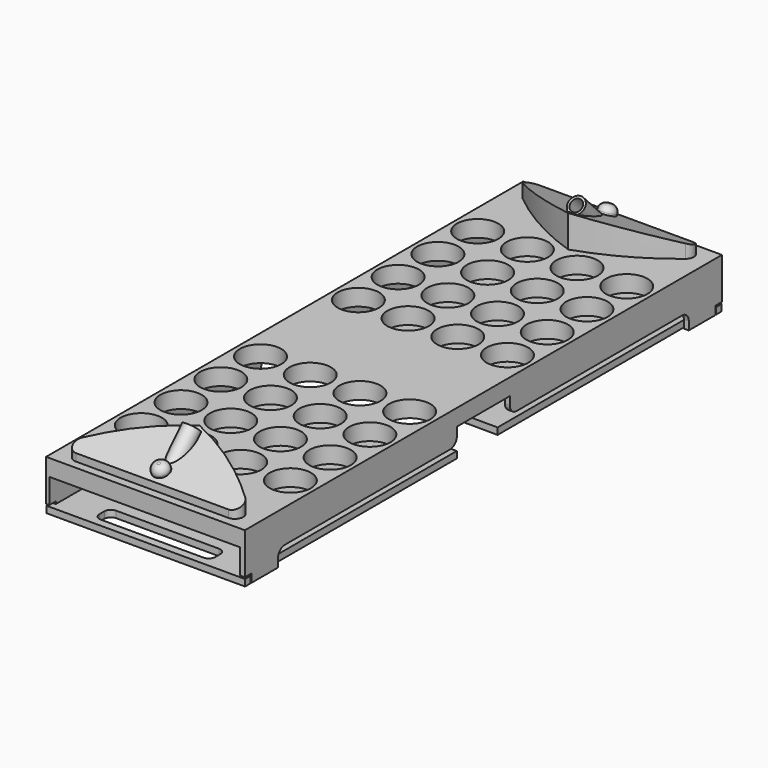
from build123d import *

# Parameters (mm, degrees)
F1_DEPTH       = 38.1
F3_DEPTH       = 101.6
F6_START       = -27.432
F5_R           = 6.35
F6_DEPTH       = 27.178
F8_R           = 6.210923981
F9_DEPTH       = 6.35
F10_R          = 5.08
F11_R          = 4.5597642591
F12_DEPTH      = 25.4
F12_DEPTH_BACK = 25.654
F13_W          = 152.4
F13_H          = 228.6
F13_R          = 15.875
F14_DEPTH      = 12.7
F16_DEPTH      = 3.81
F19_DEPTH      = 2.54
F22_DEPTH      = 5.08
F24_DEPTH      = 5.08


with BuildPart() as f1:
    # F0 (on Top) → F1 (new body)
    with BuildSketch(Plane.XY):
        with BuildLine():
            Line((-58.42, 0), (0, 0))
            Line((0, 0), (58.42, 0))
            ThreePointArc((58.42, 0), (64.3972216341, 4.2063298907), (62.45565082, 11.2526546339))
            ThreePointArc((62.45565082, 11.2526546339), (32.821504106, 31.3741110757), (0, 45.72))
            ThreePointArc((0, 45.72), (-32.821504106, 31.3741110757), (-62.45565082, 11.2526546339))
            ThreePointArc((-62.45565082, 11.2526546339), (-64.3972216341, 4.2063298907), (-58.42, 0))
        make_face()
    extrude(amount=F1_DEPTH)

    # F2 (on Right) → F3 (cut, symmetric)
    with BuildSketch(Plane.YZ):
        Polygon((-11.5003837273, 13.6697003618), (53.3394254744, 40.4384285212), (-11.5003837273, 40.4384285212), align=None)
    extrude(amount=F3_DEPTH, both=True, mode=Mode.SUBTRACT)

    # F5 (on face) → F6 (join)
    with BuildSketch(Plane(origin=(0, 0, 0), x_dir=(1, 0, 0), z_dir=(0, -0.6946583705, -0.7193398003)).offset(F6_START)):
        Circle(F5_R)
    extrude(amount=-F6_DEPTH)

    # F8 (on offset) → F9 (join)
    with BuildSketch(Plane(origin=(0, -6.4963437354, 15.7355884002), x_dir=(1, 0, 0), z_dir=(0, -0.381602662, 0.924326462))):
        with Locations((0, 16.51)):
            Circle(F8_R)
    extrude(amount=F9_DEPTH)

    # F10
    f10_edges = [f1.edges().sort_by_distance(p)[0] for p in [
        (-6.210924, 6.341109, 27.905321),
    ]]
    fillet(f10_edges, radius=F10_R)

    # F11 (on face) → F12 (cut, two sides)
    with BuildSketch(Plane(origin=(0, 37.9352936108, 39.2831464965), x_dir=(1, 0, 0), z_dir=(0, 0.6946583705, 0.7193398003))) as f12_sk:
        Circle(F11_R)
    extrude(amount=-F12_DEPTH, mode=Mode.SUBTRACT)
    extrude(f12_sk.sketch, amount=F12_DEPTH_BACK, mode=Mode.SUBTRACT)

    # F13 (on Top) → F14 (join)
    with BuildSketch(Plane.XY):
        with Locations((0, 107.95)):
            Rectangle(F13_W, F13_H)
        with Locations((-57.15, 61.0670186579)):
            Circle(F13_R, mode=Mode.SUBTRACT)
        with Locations((-57.15, 99.1670186579)):
            Circle(F13_R, mode=Mode.SUBTRACT)
        with Locations((-19.05, 61.0670186579)):
            Circle(F13_R, mode=Mode.SUBTRACT)
        with Locations((-19.05, 99.1670186579)):
            Circle(F13_R, mode=Mode.SUBTRACT)
        with Locations((19.05, 61.0670186579)):
            Circle(F13_R, mode=Mode.SUBTRACT)
        with Locations((19.05, 99.1670186579)):
            Circle(F13_R, mode=Mode.SUBTRACT)
        with Locations((57.15, 61.0670186579)):
            Circle(F13_R, mode=Mode.SUBTRACT)
        with Locations((57.15, 99.1670186579)):
            Circle(F13_R, mode=Mode.SUBTRACT)
        with Locations((-57.15, 137.2670186579)):
            Circle(F13_R, mode=Mode.SUBTRACT)
        with Locations((-19.05, 137.2670186579)):
            Circle(F13_R, mode=Mode.SUBTRACT)
        with Locations((-57.15, 175.3670186579)):
            Circle(F13_R, mode=Mode.SUBTRACT)
        with Locations((-19.05, 175.3670186579)):
            Circle(F13_R, mode=Mode.SUBTRACT)
        with Locations((19.05, 137.2670186579)):
            Circle(F13_R, mode=Mode.SUBTRACT)
        with Locations((57.15, 137.2670186579)):
            Circle(F13_R, mode=Mode.SUBTRACT)
        with Locations((19.05, 175.3670186579)):
            Circle(F13_R, mode=Mode.SUBTRACT)
        with Locations((57.15, 175.3670186579)):
            Circle(F13_R, mode=Mode.SUBTRACT)
    extrude(amount=F14_DEPTH)

    # F15 (on face) → F16 (join)
    with BuildSketch(Plane.YZ.offset(76.2)):
        with BuildLine():
            Line((196.85, 0), (-6.35, 0))
            Line((-6.35, 0), (-6.35, -19.05))
            Line((-6.35, -19.05), (0, -19.05))
            Line((0, -19.05), (0, -25.4))
            Line((0, -25.4), (25.4, -25.4))
            Line((25.4, -25.4), (25.4, -19.05))
            ThreePointArc((25.4, -19.05), (27.2598719395, -14.5598719395), (31.75, -12.7))
            Line((31.75, -12.7), (190.5, -12.7))
            ThreePointArc((190.5, -12.7), (194.9901280605, -10.8401280605), (196.85, -6.35))
            Line((196.85, -6.35), (196.85, 0))
        make_face()
    extrude(amount=-F16_DEPTH)

    # F18 (on plane+point) → F19 (join)
    with BuildSketch(Plane(origin=(-76.2, 0, 0), x_dir=(0, -1, 0), z_dir=(-1, 0, 0))):
        with BuildLine():
            Line((-196.85, 0), (-196.85, -6.35))
            ThreePointArc((-196.85, -6.35), (-194.9901280605, -10.8401280605), (-190.5, -12.7))
            Line((-190.5, -12.7), (-31.75, -12.7))
            ThreePointArc((-31.75, -12.7), (-27.2598719395, -14.5598719395), (-25.4, -19.05))
            Line((-25.4, -19.05), (-25.4, -25.4))
            Line((-25.4, -25.4), (0, -25.4))
            Line((0, -25.4), (0, -19.05))
            Line((0, -19.05), (6.35, -19.05))
            Line((6.35, -19.05), (6.35, 0))
            Line((6.35, 0), (-56.6220186579, 0))
            Line((-56.6220186579, 0), (-65.5120186579, 0))
            Line((-65.5120186579, 0), (-94.7220186579, 0))
            Line((-94.7220186579, 0), (-103.6120186579, 0))
            Line((-103.6120186579, 0), (-132.8220186579, 0))
            Line((-132.8220186579, 0), (-141.7120186579, 0))
            Line((-141.7120186579, 0), (-170.9220186579, 0))
            Line((-170.9220186579, 0), (-179.8120186579, 0))
            Line((-179.8120186579, 0), (-196.85, 0))
        make_face()
    extrude(amount=-F19_DEPTH)

    # F25: F1, F22 across face


with BuildPart() as f22:
    # F21 (on face) → F22 (new body)
    with BuildSketch(Plane.XY.offset(-25.4)):
        Polygon((-72.9881152511, -1.0298828129), (-76.176635921, -1.0298828129), (-76.176635921, -6.1545022763), (76.1597603559, -6.1545022763), (76.1597603559, -0.9657788323), (71.4518427849, -0.9657788323), (71.4518427849, 202.7119398117), (-72.9881152511, 201.947003603), align=None)
    extrude(amount=F22_DEPTH)

    # F23 (on face) → F24 (cut, through all)
    with BuildSketch(Plane(origin=(0, 0, -25.4), x_dir=(1, 0, 0), z_dir=(0, 0, -1))):
        with BuildLine():
            Line((39.37, 0), (0, 0))
            Line((0, 0), (-39.37, 0))
            ThreePointArc((-39.37, 0), (-42.9621024484, -1.4878975516), (-44.45, -5.08))
            Line((-44.45, -5.08), (-44.45, -9.7702150673))
            ThreePointArc((-44.45, -9.7702150673), (-42.9621024484, -13.3623175158), (-39.37, -14.8502150673))
            Line((-39.37, -14.8502150673), (39.37, -14.8502150673))
            ThreePointArc((39.37, -14.8502150673), (42.9621024484, -13.3623175158), (44.45, -9.7702150673))
            Line((44.45, -9.7702150673), (44.45, -5.08))
            ThreePointArc((44.45, -5.08), (42.9621024484, -1.4878975516), (39.37, 0))
        make_face()
    extrude(amount=-F24_DEPTH, mode=Mode.SUBTRACT)


with BuildPart() as f1_1:
    add(f1.part)
    add(f1.part.mirror(Plane(origin=(0, 222.25, 6.35), x_dir=(-1, 0, 0), z_dir=(0, 1, 0))))
    add(f22.part.mirror(Plane(origin=(0, 222.25, 6.35), x_dir=(-1, 0, 0), z_dir=(0, 1, 0))))


solid = Compound([f22.part, f1_1.part])
